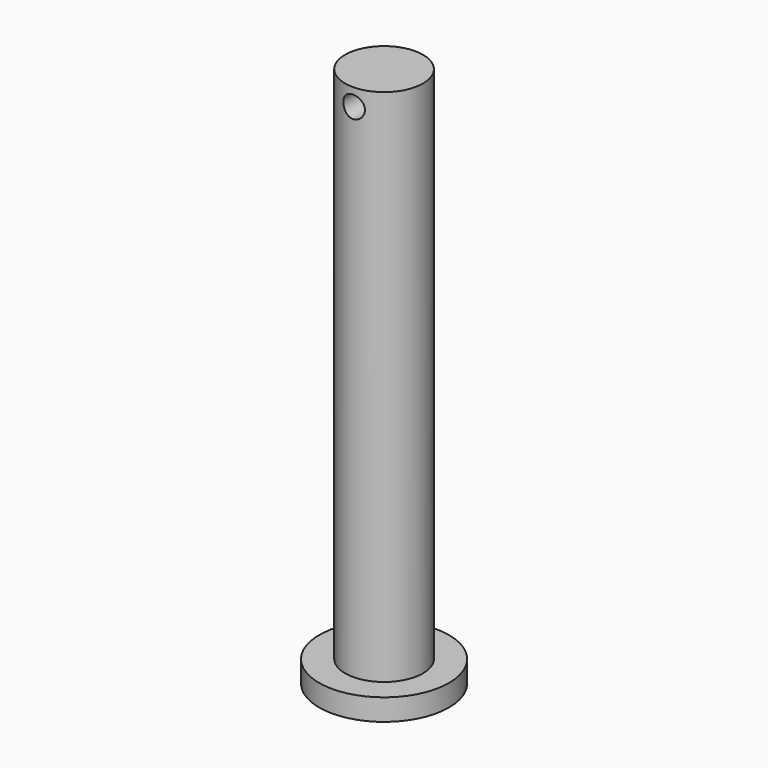
from build123d import *

# Parameters (mm, degrees)
F0_R     = 9
F1_DEPTH = 125
F2_R     = 15
F3_DEPTH = 5
F4_R     = 2.5
F5_DEPTH = 12.5


with BuildPart() as f1:
    # F0 (on Top) → F1 (new body)
    with BuildSketch(Plane.XY):
        Circle(F0_R)
    extrude(amount=F1_DEPTH)

    # F2 (on Top) → F3 (join)
    with BuildSketch(Plane.XY):
        Circle(F2_R)
    extrude(amount=F3_DEPTH)

    # F4 (on Front) → F5 (cut, symmetric)
    with BuildSketch(Plane.XZ):
        with Locations((0, 121)):
            Circle(F4_R)
    extrude(amount=F5_DEPTH, both=True, mode=Mode.SUBTRACT)


solid = f1.part
